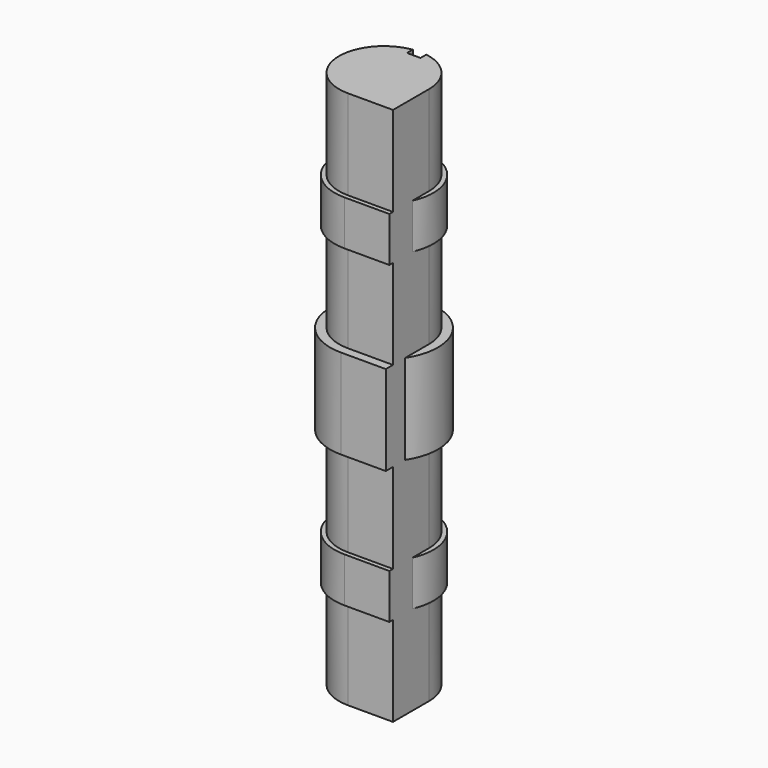
from build123d import *

# Parameters (mm, degrees)
F3_DEPTH = 50
F4_R     = 5
F5_DEPTH = 50


with BuildPart() as f1:
    # F0 (on Right) → F1 (revolve)
    with BuildSketch(Plane.YZ):
        Polygon((-50, -360.526346), (0, -360.526346), (0, 239.473654), (-50, 239.473654), (-50, 139.473654), (-55, 139.473654), (-55, 89.473654), (-50, 89.473654), (-50, -10.526346), (-60, -10.526346), (-60, -110.526346), (-50, -110.526346), (-50, -210.526346), (-55, -210.526346), (-55, -260.526346), (-50, -260.526346), align=None)
    revolve(axis=Axis((0, 0, -60.526346), (0, 0, -1)))

    # F2 (on face) → F3 (cut)
    with BuildSketch(Plane.XY.offset(239.473654)):
        with BuildLine():
            Line((7.5, 41.4343), (7.5, 49.4343))
            ThreePointArc((7.5, 49.4343), (0, 50), (-7.5, 49.4343))
            Line((-7.5, 49.4343), (-7.5, 41.4343))
            Line((-7.5, 41.4343), (7.5, 41.4343))
        make_face()
    extrude(amount=-F3_DEPTH, mode=Mode.SUBTRACT)

    # F4
    f4_edges = [f1.edges().sort_by_distance(p)[0] for p in [
        (-7.5, 45.4343, 189.473654),
        (7.5, 45.4343, 189.473654),
    ]]
    fillet(f4_edges, radius=F4_R)

    # F0 (on Right) → F5 (join)
    with BuildSketch(Plane.YZ):
        Polygon((-50, -360.526346), (0, -360.526346), (0, 239.473654), (-50, 239.473654), (-50, 139.473654), (-55, 139.473654), (-55, 89.473654), (-50, 89.473654), (-50, -10.526346), (-60, -10.526346), (-60, -110.526346), (-50, -110.526346), (-50, -210.526346), (-55, -210.526346), (-55, -260.526346), (-50, -260.526346), align=None)
    extrude(amount=F5_DEPTH)


solid = f1.part
